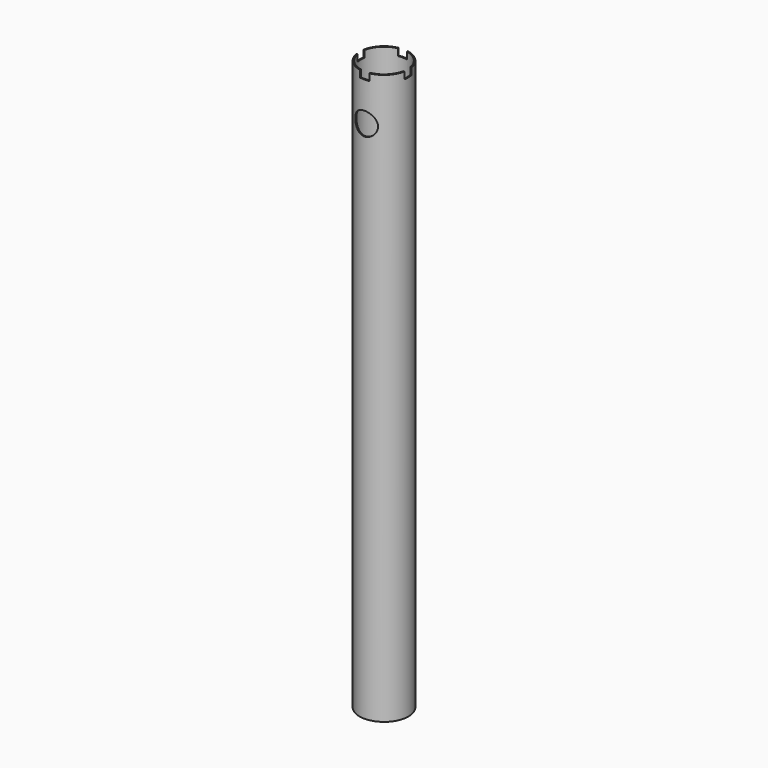
from build123d import *

# Parameters (mm, degrees)
SKETCH023_R           = 10.75
SKETCH023_R_2         = 10.25
PAD011_DEPTH          = 250
POCKET009_DEPTH       = 3
POLARPATTERN003_COUNT = 4
CYLINDER002_R         = 5
CYLINDER002_DEPTH     = 24


with BuildPart() as part:
    # Sketch023 → Pad011 (new body)
    with BuildSketch(Plane.XY):
        Circle(SKETCH023_R)
        Circle(SKETCH023_R_2, mode=Mode.SUBTRACT)
    extrude(amount=-PAD011_DEPTH)

    # Sketch024 → Pocket009 (cut)
    with BuildSketch(Plane.XY):
        Polygon((0, 12.14), (2, 12.14), (2, 2), (12.14, 2), (12.14, 0), (0, 0), align=None)
    pocket009 = extrude(amount=-POCKET009_DEPTH, mode=Mode.SUBTRACT)

    # PolarPattern003: Pocket009 ×4 about axis
    polarpattern003_axis = Axis((0, 0, 0), (0, 0, 1))
    for i in range(1, POLARPATTERN003_COUNT):
        add(pocket009.rotate(polarpattern003_axis, i * 360 / POLARPATTERN003_COUNT), mode=Mode.SUBTRACT)

    # Cylinder002 → Cylinder002 (cut)
    with BuildSketch(Plane(origin=(0, 12, -20), x_dir=(1, 0, 0), z_dir=(0, -1, 0))):
        Circle(CYLINDER002_R)
    extrude(amount=CYLINDER002_DEPTH, mode=Mode.SUBTRACT)


with BuildPart() as part_1:
    # Body011 placement: moved
    add(part.part.moved(Location((0, 0, 4.5))))


solid = part_1.part
